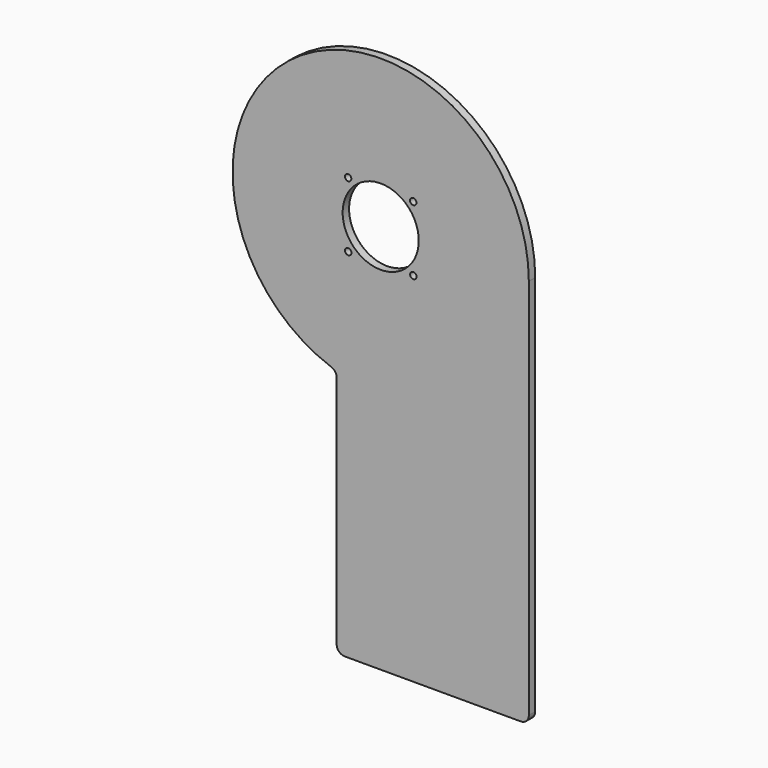
from build123d import *

# Parameters (mm, degrees)
F0_R     = 4
F0_R_2   = 47.5
F1_DEPTH = 10


with BuildPart() as f1:
    # F0 (on Front) → F1 (new body)
    with BuildSketch(Plane.XZ):
        with BuildLine():
            Line((370, 537.822554), (370, 1015))
            ThreePointArc((370, 1015), (78.1902, 1166.051867), (123.333333, 840.580327))
            ThreePointArc((123.333333, 840.580327), (128.164966, 836.92574), (130, 831.152237))
            Line((130, 831.152237), (130, 537.822554))
            ThreePointArc((130, 537.822554), (132.928932, 530.751486), (140, 527.822554))
            Line((140, 527.822554), (360, 527.822554))
            ThreePointArc((360, 527.822554), (367.071068, 530.751486), (370, 537.822554))
        make_face()
        with Locations((144.393782, 974.289006)):
            Circle(F0_R, mode=Mode.SUBTRACT)
        with Locations((144.289006, 1055.606218)):
            Circle(F0_R, mode=Mode.SUBTRACT)
        with Locations((225.710994, 974.393782)):
            Circle(F0_R, mode=Mode.SUBTRACT)
        with Locations((185, 1015)):
            Circle(F0_R_2, mode=Mode.SUBTRACT)
        with Locations((225.606218, 1055.710994)):
            Circle(F0_R, mode=Mode.SUBTRACT)
    extrude(amount=F1_DEPTH)


solid = f1.part
